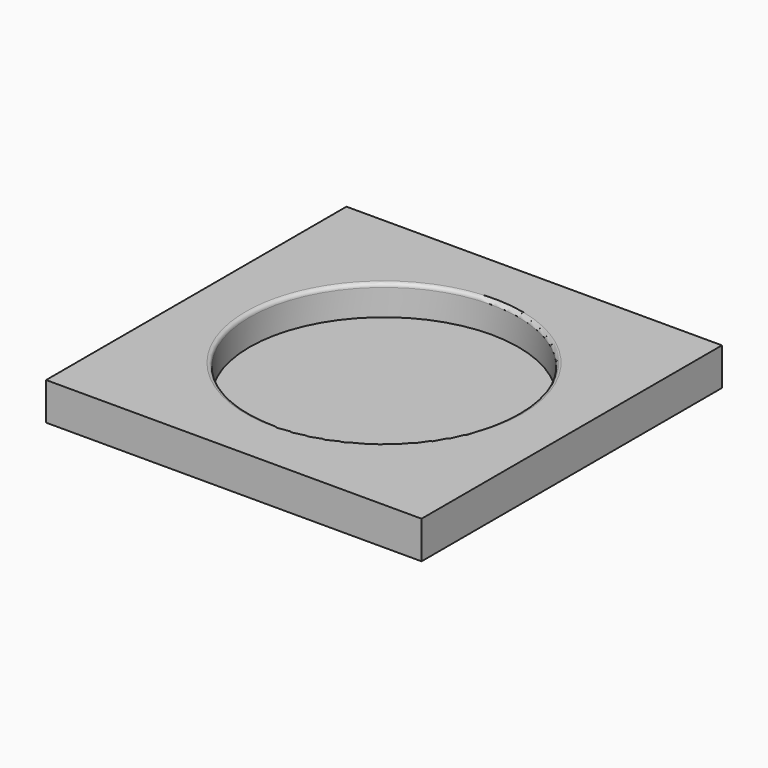
from build123d import *

# Parameters (mm, degrees)
F0_W     = 30
F0_H     = 30
F0_R     = 10.75
F1_DEPTH = 3
F2_DEPTH = 0.6
F3_R     = 0.3


with BuildPart() as f1:
    # F0 (on Top) → F1 (new body)
    with BuildSketch(Plane.XY):
        Rectangle(F0_W, F0_H)
        Circle(F0_R, mode=Mode.SUBTRACT)
    extrude(amount=F1_DEPTH)

    # F0 (on Top) → F2 (join)
    with BuildSketch(Plane.XY):
        Circle(F0_R)
    extrude(amount=F2_DEPTH)

    # F3
    f3_edges = [f1.edges().sort_by_distance(p)[0] for p in [
        (-10.75, 0, 3),
    ]]
    fillet(f3_edges, radius=F3_R)


solid = f1.part
